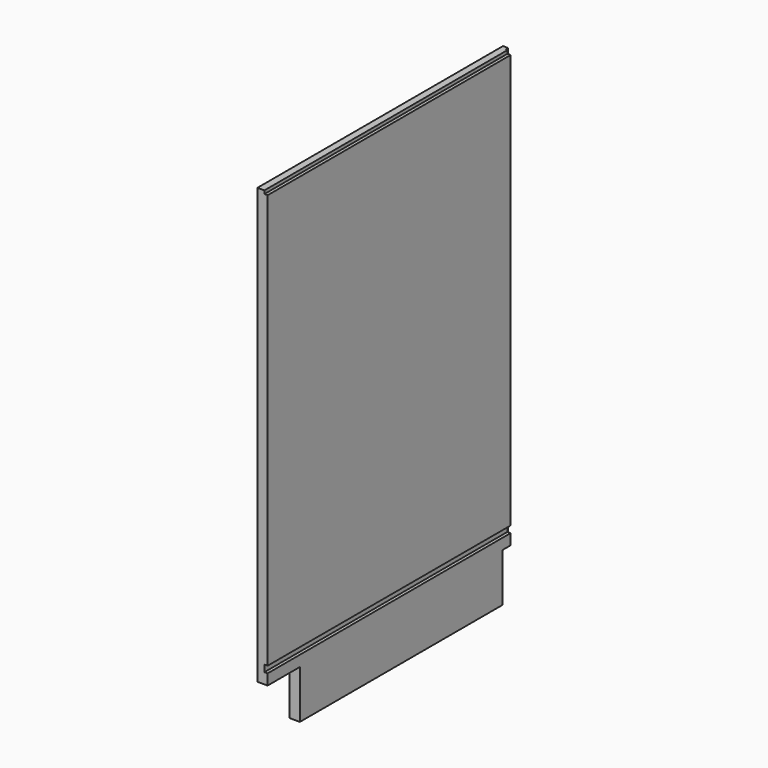
from build123d import *

# Parameters (mm, degrees)
F1_DEPTH = 19
F2_W     = 6
F2_H     = 12.5
F3_DEPTH = 571.001
F4_W     = 9.5
F4_H     = 6
F5_DEPTH = 899.001
F7_DEPTH = 19.001
F8_W     = 6
F8_H     = 6
F9_DEPTH = 571.001


with BuildPart() as f1:
    # F0 (on Right) → F1 (new body)
    with BuildSketch(Plane.YZ):
        Polygon((-496, 0), (0, 0), (0, 899), (-571, 899), (-571, 90), (-496, 90), align=None)
    extrude(amount=F1_DEPTH)

    # F2 (on Front) → F3 (cut, through all)
    with BuildSketch(Plane.XZ):
        with Locations((16, 116.25)):
            Rectangle(F2_W, F2_H)
    extrude(amount=F3_DEPTH, mode=Mode.SUBTRACT)

    # F4 (on Top) → F5 (cut, through all)
    with BuildSketch(Plane.XY):
        with Locations((14.25, -3)):
            Rectangle(F4_W, F4_H)
    extrude(amount=F5_DEPTH, mode=Mode.SUBTRACT)

    # F6 (on Right) → F7 (cut, through all)
    with BuildSketch(Plane.YZ):
        Polygon((-25, 0), (0, 0), (0, 109), (-6.915434, 90), (-25, 90), align=None)
    extrude(amount=F7_DEPTH, mode=Mode.SUBTRACT)

    # F8 (on Front) → F9 (cut, through all)
    with BuildSketch(Plane.XZ):
        with Locations((16, 896)):
            Rectangle(F8_W, F8_H)
    extrude(amount=F9_DEPTH, mode=Mode.SUBTRACT)


solid = f1.part
